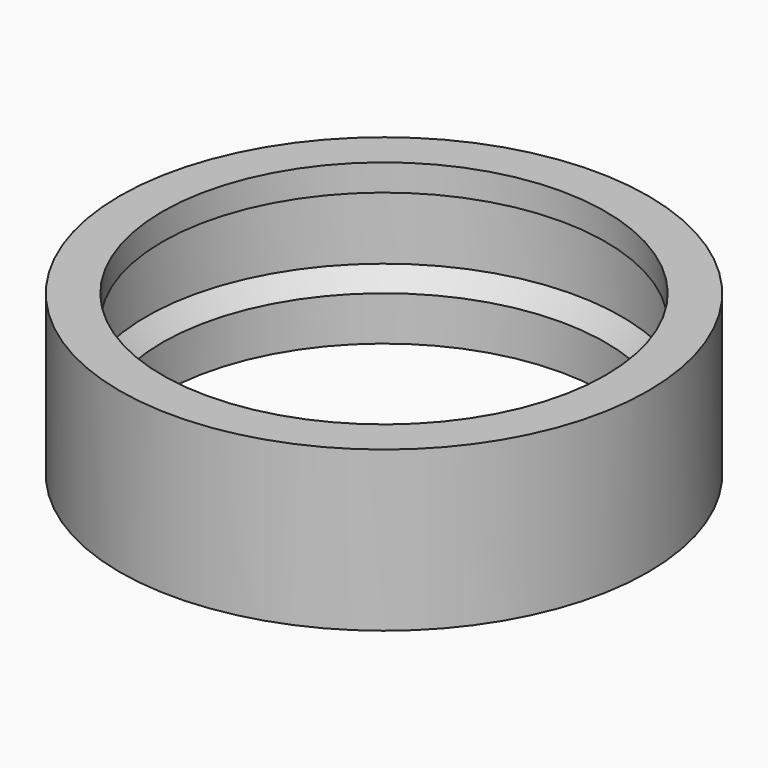
from build123d import *


with BuildPart() as part:
    # Sketch → Revolution (revolve)
    with BuildSketch(Plane.XZ):
        Polygon((25, 0), (25, 5), (26.8, 7), (26.8, 15), (25, 15), (25, 18), (29.8, 18), (29.8, 0), align=None)
    revolve(axis=Axis((0, 0, 0), (0, 0, 1)))


solid = part.part
